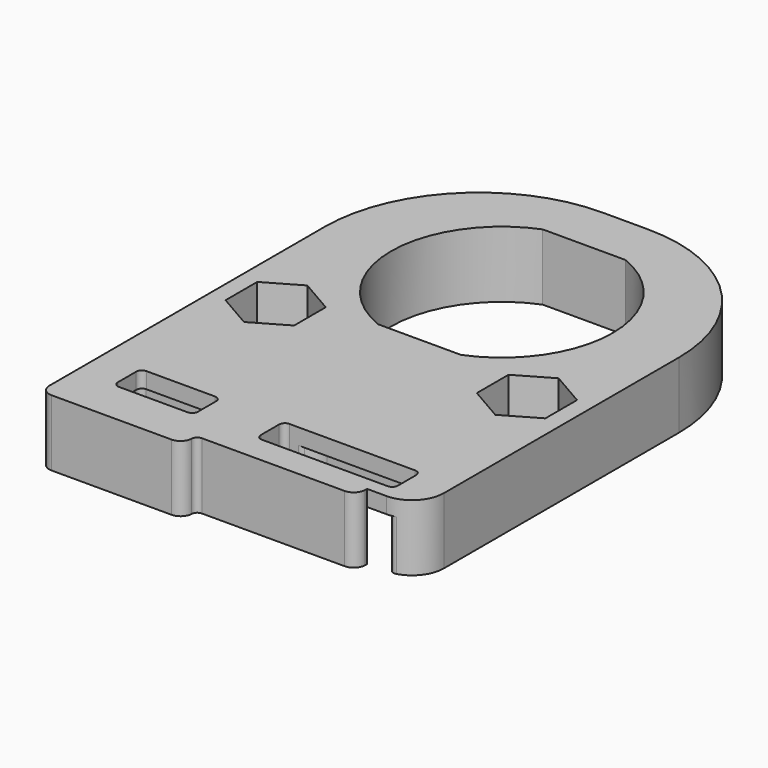
from build123d import *

# Parameters (mm, degrees)
SKETCH_R        = 1.55
SKETCH_W        = 7
SKETCH_H        = 3
SKETCH_W_2      = 12
PAD_DEPTH       = 5.8
SKETCH005_W     = 25.7
SKETCH005_H     = 13
POCKET_DEPTH    = 3
SKETCH006_R     = 1.8
POCKET001_DEPTH = 1.4
POCKET002_DEPTH = 3.4
FILLET_R        = 1
FILLET001_R     = 0.5


with BuildPart() as part:
    # Sketch → Pad (new body)
    with BuildSketch(Plane.XY):
        with BuildLine():
            Line((-2, 13.5), (2, 13.5))
            ThreePointArc((15.5, 0), (11.545942, 9.545942), (2, 13.5))
            Line((15.5, 0), (15.5, -25.7))
            ThreePointArc((12.7, -28.5), (14.679899, -27.679899), (15.5, -25.7))
            Line((11, -28.5), (12.7, -28.5))
            Line((11, -29.7), (11, -28.5))
            Line((-3, -29.7), (11, -29.7))
            Line((-3, -31.15), (-3, -29.7))
            Line((-3, -31.15), (-15.5, -31.15))
            Line((-15.5, -31.15), (-15.5, 0))
            ThreePointArc((-2, 13.5), (-11.545942, 9.545942), (-15.5, 0))
        make_face()
        with Locations((-11, -11)):
            Circle(SKETCH_R, mode=Mode.SUBTRACT)
        with Locations((11, -11)):
            Circle(SKETCH_R, mode=Mode.SUBTRACT)
        with BuildLine():
            ThreePointArc((-3.618011, 9), (-9.7, 0), (-3.618011, -9))
            Line((3.618011, -9), (-3.618011, -9))
            ThreePointArc((3.618011, -9), (9.7, 0), (3.618011, 9))
            Line((-3.618011, 9), (3.618011, 9))
        make_face(mode=Mode.SUBTRACT)
        with Locations((-8.66, -25.81)):
            Rectangle(SKETCH_W, SKETCH_H, mode=Mode.SUBTRACT)
        with Locations((6.35, -25.81)):
            Rectangle(SKETCH_W_2, SKETCH_H, mode=Mode.SUBTRACT)
    extrude(amount=PAD_DEPTH)

    # Sketch005 (on Face26 of Pad) → Pocket (cut)
    with BuildSketch(Plane(origin=(0, 0, 0), x_dir=(1, 0, 0), z_dir=(0, 0, -1))):
        with Locations((0, 22)):
            Rectangle(SKETCH005_W, SKETCH005_H)
    extrude(amount=-POCKET_DEPTH, mode=Mode.SUBTRACT)

    # Sketch006 (on Face32 of Pocket) → Pocket001 (cut)
    with BuildSketch(Plane(origin=(0, 0, 3), x_dir=(1, 0, 0), z_dir=(0, 0, -1))):
        with Locations((0, 22)):
            Circle(SKETCH006_R)
        with BuildLine():
            Line((-12.85, 20.5), (-3.5, 20.5))
            ThreePointArc((-1.5, 18.5), (-2.085786, 19.914214), (-3.5, 20.5))
            Line((-1.5, 18.5), (-1.5, 15.5))
            Line((-1.5, 15.5), (-12.85, 15.5))
            Line((-12.85, 15.5), (-12.85, 20.5))
        make_face()
        with BuildLine():
            Line((1.5, 15.5), (12.85, 15.5))
            Line((12.85, 15.5), (12.85, 20.5))
            Line((12.85, 20.5), (3.5, 20.5))
            ThreePointArc((3.5, 20.5), (2.085786, 19.914214), (1.5, 18.5))
            Line((1.5, 18.5), (1.5, 15.5))
        make_face()
        with BuildLine():
            Line((-12.85, 23.5), (-3.5, 23.5))
            ThreePointArc((-3.5, 23.5), (-2.085786, 24.085786), (-1.5, 25.5))
            Line((-1.5, 25.5), (-1.5, 28.5))
            Line((-1.5, 28.5), (-12.85, 28.5))
            Line((-12.85, 28.5), (-12.85, 23.5))
        make_face()
        with BuildLine():
            Line((1.5, 28.5), (12.85, 28.5))
            Line((12.85, 28.5), (12.85, 23.5))
            Line((12.85, 23.5), (3.5, 23.5))
            ThreePointArc((1.5, 25.5), (2.085786, 24.085786), (3.5, 23.5))
            Line((1.5, 25.5), (1.5, 28.5))
        make_face()
    extrude(amount=-POCKET001_DEPTH, mode=Mode.SUBTRACT)

    # Sketch001 (on Face5 of Pocket001) → Pocket002 (cut)
    with BuildSketch(Plane.XY.offset(5.8)):
        Polygon((-8, -12.732051), (-8, -9.267949), (-11, -7.535898), (-14, -9.267949), (-14, -12.732051), (-11, -14.464102), align=None)
        Polygon((14, -12.732051), (14, -9.267949), (11, -7.535898), (8, -9.267949), (8, -12.732051), (11, -14.464102), align=None)
    extrude(amount=-POCKET002_DEPTH, mode=Mode.SUBTRACT)

    # Fillet
    fillet_edges = [part.edges().sort_by_distance(p)[0] for p in [
        (-15.5, -31.15, 2.9),
        (-3, -31.15, 2.9),
        (11, -29.7, 2.9),
    ]]
    fillet(fillet_edges, radius=FILLET_R)

    # Fillet001
    fillet001_edges = [part.edges().sort_by_distance(p)[0] for p in [
        (12.85, -23.5, 3.7),
        (12.85, -20.5, 3.7),
        (-12.85, -20.5, 3.7),
        (-12.85, -23.5, 3.7),
        (-1.8, -22, 4.4),
        (0.35, -27.31, 4.4),
        (0.35, -24.31, 4.4),
        (1.892549, -24.31, 3.7),
        (-3, -29.7, 2.9),
        (12.35, -27.31, 5.1),
        (12.35, -24.31, 5.1),
        (-5.16, -27.31, 5.1),
        (-5.16, -24.31, 5.1),
        (-12.16, -24.31, 5.1),
        (-12.16, -27.31, 5.1),
        (-12.85, -15.5, 1.5),
        (12.85, -28.495979, 1.5),
    ]]
    fillet(fillet001_edges, radius=FILLET001_R)


solid = part.part
